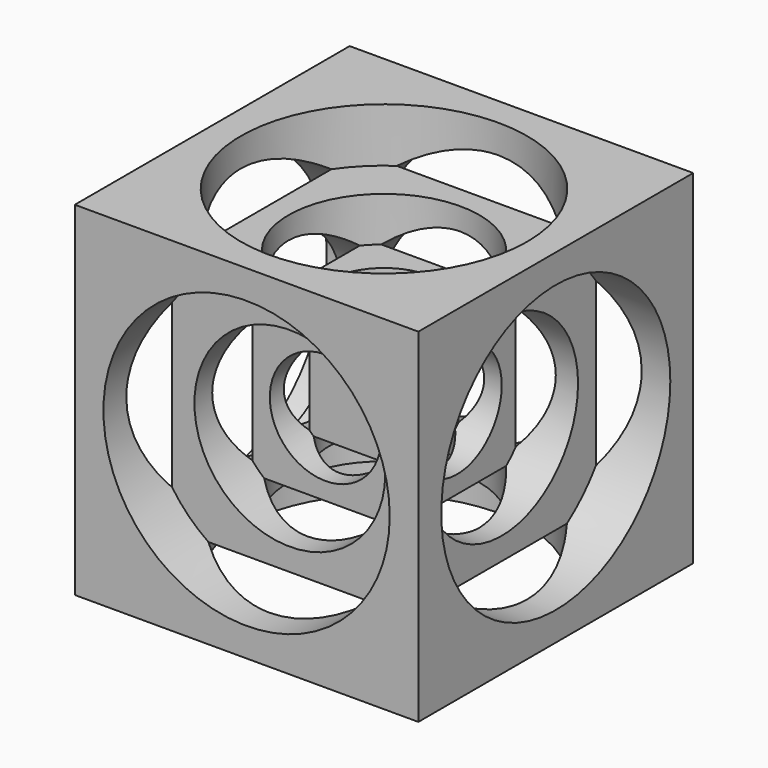
from build123d import *

# Parameters (mm, degrees)
F0_W      = 68.58
F0_H      = 68.58
F1_DEPTH  = 68.58
F2_R      = 28.575
F3_DEPTH  = 10.795
F4_R      = 28.575
F5_DEPTH  = 10.795
F6_R      = 28.575
F7_DEPTH  = 10.795
F8_R      = 28.575
F9_DEPTH  = 10.795
F10_R     = 28.575
F11_DEPTH = 10.795
F12_R     = 28.575
F13_DEPTH = 10.795
F14_R     = 19.05
F15_DEPTH = 8.89
F16_R     = 19.05
F17_DEPTH = 8.89
F18_R     = 19.05
F19_DEPTH = 8.89
F20_R     = 19.05
F21_DEPTH = 8.89
F22_R     = 19.05
F23_DEPTH = 8.89
F24_R     = 19.05
F25_DEPTH = 8.89
F26_R     = 11.1125
F27_DEPTH = 6.35
F28_R     = 11.1125
F29_DEPTH = 6.35
F30_R     = 11.1125
F31_DEPTH = 6.35
F32_R     = 11.1125
F33_DEPTH = 6.35
F34_R     = 11.1125
F35_DEPTH = 6.35
F36_R     = 11.1125
F37_DEPTH = 6.35


with BuildPart() as f1:
    # F0 (on Front) → F1 (new body)
    with BuildSketch(Plane.XZ):
        with Locations((10.824279, -2.404214)):
            Rectangle(F0_W, F0_H)
    extrude(amount=F1_DEPTH)

    # F2 (on face) → F3 (cut)
    with BuildSketch(Plane.XZ.offset(68.58)):
        with Locations((10.824279, -2.404214)):
            Circle(F2_R)
    extrude(amount=-F3_DEPTH, mode=Mode.SUBTRACT)

    # F4 (on face) → F5 (cut)
    with BuildSketch(Plane.YZ.offset(45.114279)):
        with Locations((-34.29, -2.404214)):
            Circle(F4_R)
    extrude(amount=-F5_DEPTH, mode=Mode.SUBTRACT)

    # F6 (on face) → F7 (cut)
    with BuildSketch(Plane(origin=(0, 0, 0), x_dir=(-1, 0, 0), z_dir=(0, 1, 0))):
        with Locations((-10.824279, -2.404214)):
            Circle(F6_R)
    extrude(amount=-F7_DEPTH, mode=Mode.SUBTRACT)

    # F8 (on face) → F9 (cut)
    with BuildSketch(Plane(origin=(-23.465721, 0, 0), x_dir=(0, -1, 0), z_dir=(-1, 0, 0))):
        with Locations((34.29, -2.404214)):
            Circle(F8_R)
    extrude(amount=-F9_DEPTH, mode=Mode.SUBTRACT)

    # F10 (on face) → F11 (cut)
    with BuildSketch(Plane.XY.offset(31.885786)):
        with Locations((10.824279, -34.29)):
            Circle(F10_R)
    extrude(amount=-F11_DEPTH, mode=Mode.SUBTRACT)

    # F12 (on face) → F13 (cut)
    with BuildSketch(Plane(origin=(0, 0, -36.694214), x_dir=(1, 0, 0), z_dir=(0, 0, -1))):
        with Locations((10.824279, 34.29)):
            Circle(F12_R)
    extrude(amount=-F13_DEPTH, mode=Mode.SUBTRACT)

    # F14 (on face) → F15 (cut)
    with BuildSketch(Plane.XZ.offset(57.785)):
        with Locations((10.824279, -2.404214)):
            Circle(F14_R)
    extrude(amount=-F15_DEPTH, mode=Mode.SUBTRACT)

    # F16 (on face) → F17 (cut)
    with BuildSketch(Plane.YZ.offset(34.319279)):
        with Locations((-34.29, -2.404214)):
            Circle(F16_R)
    extrude(amount=-F17_DEPTH, mode=Mode.SUBTRACT)

    # F18 (on face) → F19 (cut)
    with BuildSketch(Plane(origin=(0, -10.795, 0), x_dir=(-1, 0, 0), z_dir=(0, 1, 0))):
        with Locations((-10.824279, -2.404214)):
            Circle(F18_R)
    extrude(amount=-F19_DEPTH, mode=Mode.SUBTRACT)

    # F20 (on face) → F21 (cut)
    with BuildSketch(Plane(origin=(-12.670721, 0, 0), x_dir=(0, -1, 0), z_dir=(-1, 0, 0))):
        with Locations((34.29, -2.404214)):
            Circle(F20_R)
    extrude(amount=-F21_DEPTH, mode=Mode.SUBTRACT)

    # F22 (on face) → F23 (cut)
    with BuildSketch(Plane.XY.offset(21.090786)):
        with Locations((10.824279, -34.29)):
            Circle(F22_R)
    extrude(amount=-F23_DEPTH, mode=Mode.SUBTRACT)

    # F24 (on face) → F25 (cut)
    with BuildSketch(Plane(origin=(0, 0, -25.899214), x_dir=(1, 0, 0), z_dir=(0, 0, -1))):
        with Locations((10.824279, 34.29)):
            Circle(F24_R)
    extrude(amount=-F25_DEPTH, mode=Mode.SUBTRACT)

    # F26 (on face) → F27 (cut)
    with BuildSketch(Plane.YZ.offset(25.429279)):
        with Locations((-34.29, -2.404214)):
            Circle(F26_R)
    extrude(amount=-F27_DEPTH, mode=Mode.SUBTRACT)

    # F28 (on face) → F29 (cut)
    with BuildSketch(Plane.XY.offset(12.200786)):
        with Locations((10.824279, -34.29)):
            Circle(F28_R)
    extrude(amount=-F29_DEPTH, mode=Mode.SUBTRACT)

    # F30 (on face) → F31 (cut)
    with BuildSketch(Plane.XZ.offset(48.895)):
        with Locations((10.824279, -2.404214)):
            Circle(F30_R)
    extrude(amount=-F31_DEPTH, mode=Mode.SUBTRACT)

    # F32 (on face) → F33 (cut)
    with BuildSketch(Plane(origin=(0, -19.685, 0), x_dir=(-1, 0, 0), z_dir=(0, 1, 0))):
        with Locations((-10.824279, -2.404214)):
            Circle(F32_R)
    extrude(amount=-F33_DEPTH, mode=Mode.SUBTRACT)

    # F34 (on face) → F35 (cut)
    with BuildSketch(Plane(origin=(0, 0, -17.009214), x_dir=(1, 0, 0), z_dir=(0, 0, -1))):
        with Locations((10.824279, 34.29)):
            Circle(F34_R)
    extrude(amount=-F35_DEPTH, mode=Mode.SUBTRACT)

    # F36 (on face) → F37 (cut)
    with BuildSketch(Plane(origin=(-3.780721, 0, 0), x_dir=(0, -1, 0), z_dir=(-1, 0, 0))):
        with Locations((34.29, -2.404214)):
            Circle(F36_R)
    extrude(amount=-F37_DEPTH, mode=Mode.SUBTRACT)


solid = f1.part
